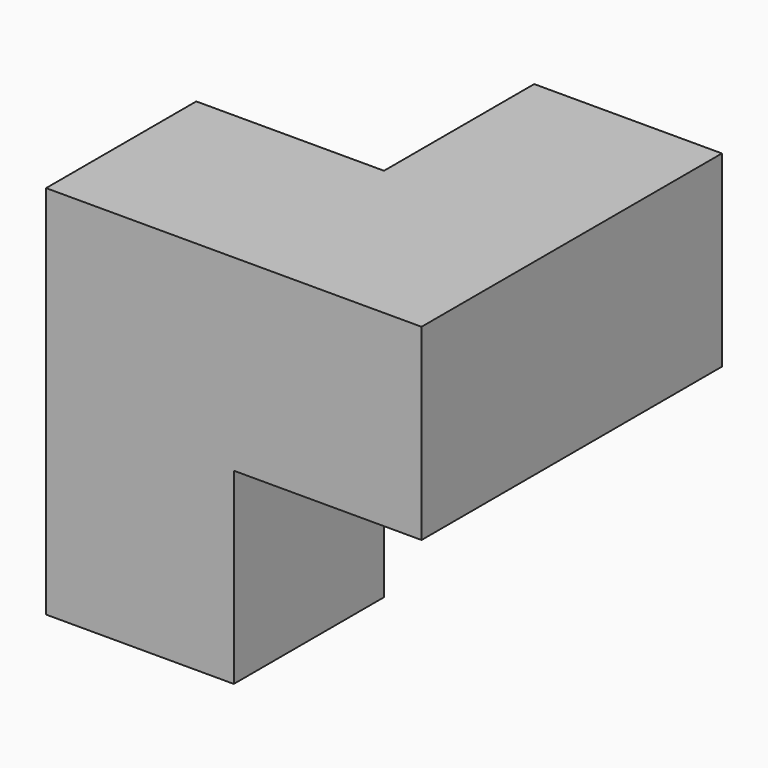
from build123d import *

# Parameters (mm, degrees)
F0_W     = 19.05
F0_H     = 19.05
F1_DEPTH = 19.05
F2_W     = 19.05
F2_H     = 19.05
F3_DEPTH = 19.05


with BuildPart() as f1:
    # F0 (on Top) → F1 (new body)
    with BuildSketch(Plane.XY):
        Polygon((0, 19.05), (0, 0), (19.05, 0), (19.05, 38.1), (0, 38.1), align=None)
        with Locations((-9.525, 9.525)):
            Rectangle(F0_W, F0_H)
    extrude(amount=F1_DEPTH)

    # F2 (on face) → F3 (join)
    with BuildSketch(Plane(origin=(0, 0, 0), x_dir=(1, 0, 0), z_dir=(0, 0, -1))):
        with Locations((-9.525, -9.525)):
            Rectangle(F2_W, F2_H)
    extrude(amount=F3_DEPTH)


solid = f1.part
